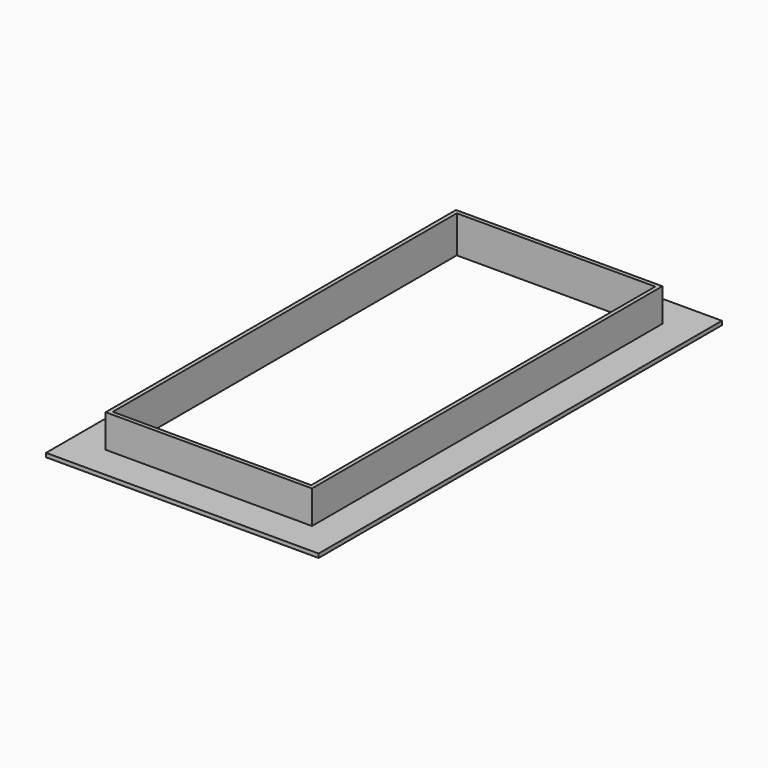
from build123d import *

# Parameters (mm, degrees)
SKETCH054_W            = 300
SKETCH054_H            = 60
PAD003_DEPTH           = 325
SKETCH004_W            = 312
SKETCH004_H            = 50
PAD004_DEPTH           = 331
SKETCH055_W            = 412
SKETCH055_H            = 762
PAD005_DEPTH           = 6
CUT001_PLACEMENT_ANGLE = 180


with BuildPart() as body002:
    # Sketch054 → Pad003 (new body, symmetric)
    with BuildSketch(Plane.XZ):
        with Locations((0, 30)):
            Rectangle(SKETCH054_W, SKETCH054_H)
    extrude(amount=PAD003_DEPTH, both=True)


with BuildPart() as cut001:
    # Sketch004 → Pad004 (new body, symmetric)
    with BuildSketch(Plane.XZ):
        with Locations((0, 25)):
            Rectangle(SKETCH004_W, SKETCH004_H)
    extrude(amount=PAD004_DEPTH, both=True)

    # Sketch055 (on Face3 of Pad004) → Pad005 (join)
    with BuildSketch(Plane(origin=(0, 0, 50), x_dir=(-1, 0, 0), z_dir=(0, 0, 1))):
        Rectangle(SKETCH055_W, SKETCH055_H)
    extrude(amount=PAD005_DEPTH)

    # Cut001: cut Body002
    add(body002.part, mode=Mode.SUBTRACT)


with BuildPart() as cut001_1:
    # Cut001 placement: moved
    add(cut001.part.rotate(Axis((0, 0, 0), (0, 1, 0)), CUT001_PLACEMENT_ANGLE))


solid = cut001_1.part
